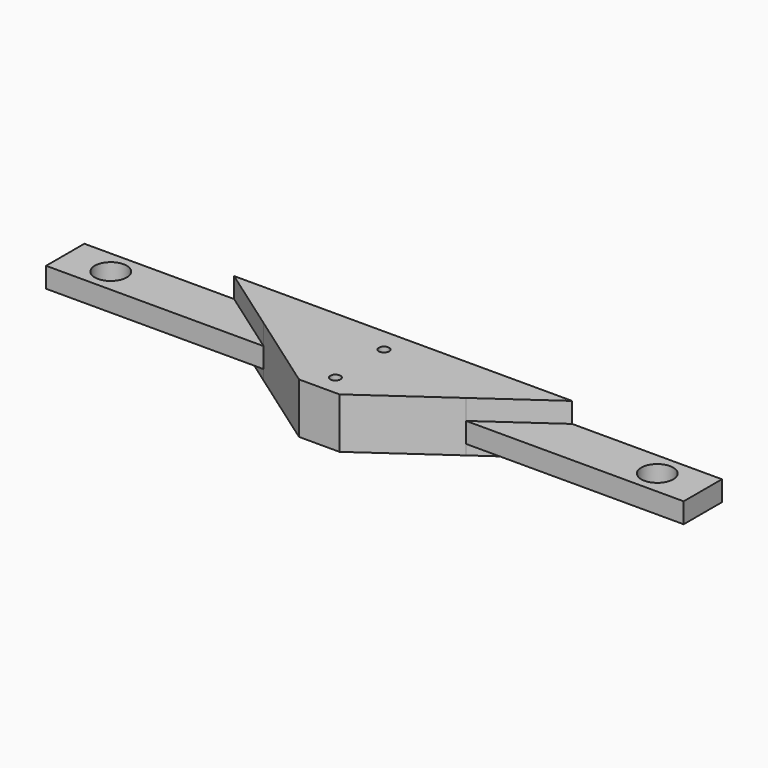
from build123d import *

# Parameters (mm, degrees)
F0_R          = 5
F1_DEPTH      = 6.35
F0_R_2        = 1.5875
F2_DEPTH      = 12.7
F2_DEPTH_BACK = 3.175


with BuildPart() as f1:
    # F0 (on Top) → F1 (new body)
    with BuildSketch(Plane.XY):
        Polygon((-53.034916, 7.5), (-100.0125, 7.5), (-100.0125, -7.5), (-31.75, -7.5), align=None)
        with Locations((-85.725, 0)):
            Circle(F0_R, mode=Mode.SUBTRACT)
        Polygon((100.0125, 7.5), (53.034916, 7.5), (31.75, -7.5), (100.0125, -7.5), align=None)
        with Locations((85.725, 0)):
            Circle(F0_R, mode=Mode.SUBTRACT)
    extrude(amount=F1_DEPTH)

    # F0 (on Top) → F2 (join, two sides)
    with BuildSketch(Plane.XY) as f2_sk:
        Polygon((53.034916, 7.5), (-53.034916, 7.5), (-31.75, -7.5), (31.75, -7.5), align=None)
        Circle(F0_R_2, mode=Mode.SUBTRACT)
        Polygon((31.75, -7.5), (-31.75, -7.5), (-6.35, -25.4), (6.35, -25.4), align=None)
        with Locations((0, -19.05)):
            Circle(F0_R_2, mode=Mode.SUBTRACT)
    extrude(amount=F2_DEPTH)
    extrude(f2_sk.sketch, amount=-F2_DEPTH_BACK)


solid = f1.part
